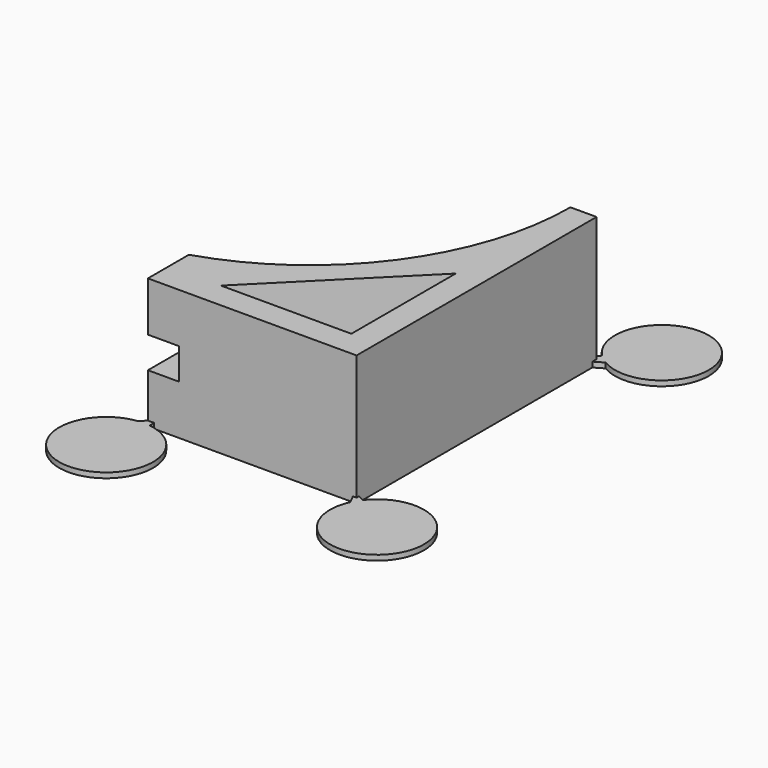
from build123d import *

# Parameters (mm, degrees)
F1_DEPTH  = 12.5
F3_DEPTH  = 25
F4_R      = 9.05
F5_DEPTH  = 55
F6_R      = 9.15
F7_DEPTH  = 52.5
F9_DEPTH  = 57.501
F11_DEPTH = 25
F13_DEPTH = 1


with BuildPart() as f1:
    # F0 (on Top) → F1 (new body, symmetric)
    with BuildSketch(Plane.XY):
        with BuildLine():
            ThreePointArc((50, 0), (0, -50), (-50, 0))
            Line((-50, 0), (-55, 0))
            ThreePointArc((-55, 0), (0, -55), (55, 0))
            Line((55, 0), (50, 0))
        make_face()
    extrude(amount=F1_DEPTH, both=True)

    # F2 (on face) → F3 (join)
    with BuildSketch(Plane.XY.offset(12.5)):
        with BuildLine():
            ThreePointArc((55, 0), (0, -55), (-55, 0))
            Line((-55, 0), (-55, -57.5))
            Line((-55, -57.5), (0, -57.5))
            Line((0, -57.5), (55, -57.5))
            Line((55, -57.5), (55, 0))
        make_face()
    extrude(amount=-F3_DEPTH)

    # F4 (on Front) → F5 (cut)
    with BuildSketch(Plane.XZ):
        Circle(F4_R)
    extrude(amount=F5_DEPTH, mode=Mode.SUBTRACT)

    # F6 (on Right) → F7 (cut, symmetric)
    with BuildSketch(Plane.YZ):
        with Locations((-11, 0)):
            Circle(F6_R)
    extrude(amount=F7_DEPTH, both=True, mode=Mode.SUBTRACT)

    # F8 (on face) → F9 (cut, through all)
    with BuildSketch(Plane.XZ.offset(57.5)):
        Polygon((15, 12.5), (-15, 12.5), (-15, 48.375133), (-89.987703, 48.375133), (-91.230497, -54.7974), (-15, -56.857262), (-15, -12.5), (15, -12.5), (15, -3), (21, -3), (21, 0), (21, 3), (15, 3), align=None)
    extrude(amount=-F9_DEPTH, mode=Mode.SUBTRACT)

    # F10 (on face) → F11 (cut)
    with BuildSketch(Plane(origin=(0, 0, -12.5), x_dir=(1, 0, 0), z_dir=(0, 0, -1))):
        Polygon((50, 27.5), (50, 52.5), (25, 52.5), align=None)
    extrude(amount=-F11_DEPTH, mode=Mode.SUBTRACT)

    # F12 (on face) → F13 (join)
    with BuildSketch(Plane(origin=(0, 0, -12.5), x_dir=(1, 0, 0), z_dir=(0, 0, -1))):
        with BuildLine():
            Line((16.194436, 57.5), (16.194436, 58.579612))
            ThreePointArc((16.194436, 58.579612), (14.941014, 76.499807), (13.922594, 58.564722))
            Line((13.922594, 58.564722), (15, 57.5))
            Line((15, 57.5), (16.194436, 57.5))
        make_face()
        with BuildLine():
            Line((55, 56.879111), (56.230159, 57.5))
            ThreePointArc((56.230159, 57.5), (71.021188, 67.707692), (55.175651, 59.228867))
            Line((55.175651, 59.228867), (54.298293, 57.5))
            Line((54.298293, 57.5), (55, 57.5))
            Line((55, 57.5), (55, 56.879111))
        make_face()
        with BuildLine():
            Line((53.94445, 0), (54.919557, -1.423379))
            ThreePointArc((54.919557, -1.423379), (66.865014, -14.838437), (56.741846, 0))
            Line((56.741846, 0), (55, 1.024423))
            Line((55, 1.024423), (55, 0))
            Line((55, 0), (53.94445, 0))
        make_face()
    extrude(amount=-F13_DEPTH)


solid = f1.part
